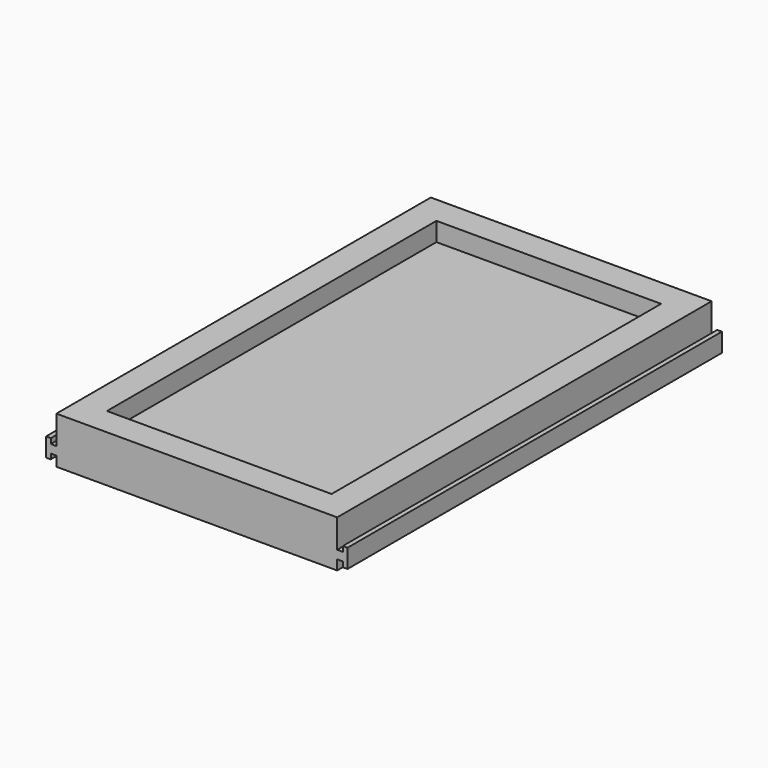
from build123d import *

# Parameters (mm, degrees)
F0_W     = 76.2
F0_H     = 127
F1_DEPTH = 12.7
F2_T     = -7.62
F4_DEPTH = 63.5


with BuildPart() as f1:
    # F0 (on Top) → F1 (new body)
    with BuildSketch(Plane.XY):
        Rectangle(F0_W, F0_H)
    extrude(amount=F1_DEPTH)

    # F2
    f2_openings = [f1.faces().sort_by_distance(p)[0] for p in [
        (0, 0, 12.7),
    ]]
    offset(amount=F2_T, openings=f2_openings)

    # F3 (on Front) → F4 (join, symmetric)
    with BuildSketch(Plane.XZ):
        Polygon((-38.1, 4.947344), (-39.625825, 4.947344), (-39.625825, 2.672656), (-38.1, 2.672656), (-38.1, 3.81), align=None)
        Polygon((-39.625825, 2.672656), (-39.625825, 4.947344), (-39.625825, 6.35), (-40.895825, 6.35), (-40.895825, 1.27), (-39.625825, 1.27), align=None)
        Polygon((39.625825, 6.35), (39.625825, 4.947344), (39.625825, 2.672656), (39.625825, 1.27), (40.895825, 1.27), (40.895825, 6.35), align=None)
        Polygon((39.625825, 2.672656), (39.625825, 4.947344), (38.1, 4.947344), (38.1, 3.81), (38.1, 2.672656), align=None)
    extrude(amount=F4_DEPTH, both=True)


solid = f1.part
